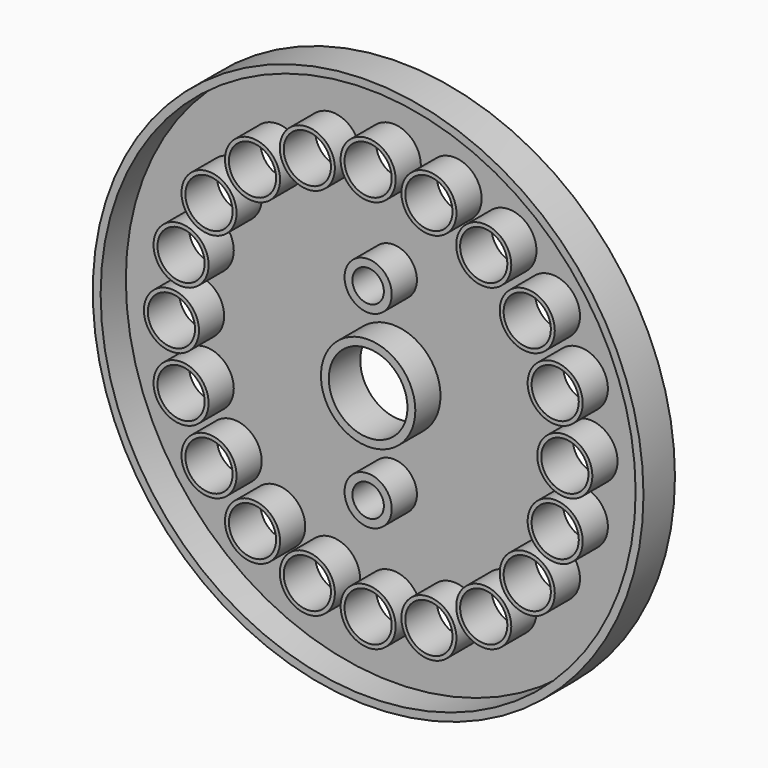
from build123d import *

# Parameters (mm, degrees)
F0_R     = 35
F0_R_2   = 3
F0_R_3   = 2
F0_R_4   = 5
F1_DEPTH = 1
F2_R     = 35
F2_R_2   = 34
F2_R_3   = 3
F2_R_4   = 2
F2_R_5   = 6
F2_R_6   = 5
F2_R_7   = 3.5
F3_DEPTH = 4


with BuildPart() as f1:
    # F0 (on Front) → F1 (new body)
    with BuildSketch(Plane.XZ):
        Circle(F0_R)
        with Locations((-14.694631, -20.225425)):
            Circle(F0_R_2, mode=Mode.SUBTRACT)
        with Locations((-7.725425, -23.776413)):
            Circle(F0_R_2, mode=Mode.SUBTRACT)
        with Locations((-20.225425, -14.694631)):
            Circle(F0_R_2, mode=Mode.SUBTRACT)
        with Locations((-23.776413, -7.725425)):
            Circle(F0_R_2, mode=Mode.SUBTRACT)
        with Locations((0, -25)):
            Circle(F0_R_2, mode=Mode.SUBTRACT)
        with Locations((7.725425, -23.776413)):
            Circle(F0_R_2, mode=Mode.SUBTRACT)
        with Locations((14.694631, -20.225425)):
            Circle(F0_R_2, mode=Mode.SUBTRACT)
        with Locations((0, -12)):
            Circle(F0_R_3, mode=Mode.SUBTRACT)
        with Locations((20.225425, -14.694631)):
            Circle(F0_R_2, mode=Mode.SUBTRACT)
        with Locations((23.776413, -7.725425)):
            Circle(F0_R_2, mode=Mode.SUBTRACT)
        with Locations((-25, 0)):
            Circle(F0_R_2, mode=Mode.SUBTRACT)
        with Locations((-23.776413, 7.725425)):
            Circle(F0_R_2, mode=Mode.SUBTRACT)
        with Locations((-20.225425, 14.694631)):
            Circle(F0_R_2, mode=Mode.SUBTRACT)
        with Locations((-14.694631, 20.225425)):
            Circle(F0_R_2, mode=Mode.SUBTRACT)
        with Locations((-7.725425, 23.776413)):
            Circle(F0_R_2, mode=Mode.SUBTRACT)
        Circle(F0_R_4, mode=Mode.SUBTRACT)
        with Locations((0, 12)):
            Circle(F0_R_3, mode=Mode.SUBTRACT)
        with Locations((25, 0)):
            Circle(F0_R_2, mode=Mode.SUBTRACT)
        with Locations((23.776413, 7.725425)):
            Circle(F0_R_2, mode=Mode.SUBTRACT)
        with Locations((20.225425, 14.694631)):
            Circle(F0_R_2, mode=Mode.SUBTRACT)
        with Locations((0, 25)):
            Circle(F0_R_2, mode=Mode.SUBTRACT)
        with Locations((7.725425, 23.776413)):
            Circle(F0_R_2, mode=Mode.SUBTRACT)
        with Locations((14.694631, 20.225425)):
            Circle(F0_R_2, mode=Mode.SUBTRACT)
    extrude(amount=F1_DEPTH)

    # F2 (on face) → F3 (join)
    with BuildSketch(Plane.XZ.offset(1)):
        Circle(F2_R)
        Circle(F2_R_2, mode=Mode.SUBTRACT)
        with Locations((0, 12)):
            Circle(F2_R_3)
        with Locations((0, 12)):
            Circle(F2_R_4, mode=Mode.SUBTRACT)
        Circle(F2_R_5)
        Circle(F2_R_6, mode=Mode.SUBTRACT)
        with Locations((0, -12)):
            Circle(F2_R_3)
        with Locations((0, -12)):
            Circle(F2_R_4, mode=Mode.SUBTRACT)
        with Locations((-14.694631, 20.225425)):
            Circle(F2_R_7)
        with Locations((-14.694631, 20.225425)):
            Circle(F2_R_3, mode=Mode.SUBTRACT)
        with Locations((-20.225425, 14.694631)):
            Circle(F2_R_7)
        with Locations((-20.225425, 14.694631)):
            Circle(F2_R_3, mode=Mode.SUBTRACT)
        with Locations((-23.776413, 7.725425)):
            Circle(F2_R_7)
        with Locations((-23.776413, 7.725425)):
            Circle(F2_R_3, mode=Mode.SUBTRACT)
        with Locations((-25, 0)):
            Circle(F2_R_7)
        with Locations((-25, 0)):
            Circle(F2_R_3, mode=Mode.SUBTRACT)
        with Locations((-23.776413, -7.725425)):
            Circle(F2_R_7)
        with Locations((-23.776413, -7.725425)):
            Circle(F2_R_3, mode=Mode.SUBTRACT)
        with Locations((-20.225425, -14.694631)):
            Circle(F2_R_7)
        with Locations((-20.225425, -14.694631)):
            Circle(F2_R_3, mode=Mode.SUBTRACT)
        with Locations((-14.694631, -20.225425)):
            Circle(F2_R_7)
        with Locations((-14.694631, -20.225425)):
            Circle(F2_R_3, mode=Mode.SUBTRACT)
        with Locations((-7.725425, -23.776413)):
            Circle(F2_R_7)
        with Locations((-7.725425, -23.776413)):
            Circle(F2_R_3, mode=Mode.SUBTRACT)
        with Locations((0, -25)):
            Circle(F2_R_7)
        with Locations((0, -25)):
            Circle(F2_R_3, mode=Mode.SUBTRACT)
        with Locations((7.725425, -23.776413)):
            Circle(F2_R_7)
        with Locations((7.725425, -23.776413)):
            Circle(F2_R_3, mode=Mode.SUBTRACT)
        with Locations((14.694631, -20.225425)):
            Circle(F2_R_7)
        with Locations((14.694631, -20.225425)):
            Circle(F2_R_3, mode=Mode.SUBTRACT)
        with Locations((20.225425, -14.694631)):
            Circle(F2_R_7)
        with Locations((20.225425, -14.694631)):
            Circle(F2_R_3, mode=Mode.SUBTRACT)
        with Locations((23.776413, -7.725425)):
            Circle(F2_R_7)
        with Locations((23.776413, -7.725425)):
            Circle(F2_R_3, mode=Mode.SUBTRACT)
        with Locations((25, 0)):
            Circle(F2_R_7)
        with Locations((25, 0)):
            Circle(F2_R_3, mode=Mode.SUBTRACT)
        with Locations((23.776413, 7.725425)):
            Circle(F2_R_7)
        with Locations((23.776413, 7.725425)):
            Circle(F2_R_3, mode=Mode.SUBTRACT)
        with Locations((20.225425, 14.694631)):
            Circle(F2_R_7)
        with Locations((20.225425, 14.694631)):
            Circle(F2_R_3, mode=Mode.SUBTRACT)
        with Locations((14.694631, 20.225425)):
            Circle(F2_R_7)
        with Locations((14.694631, 20.225425)):
            Circle(F2_R_3, mode=Mode.SUBTRACT)
        with Locations((7.725425, 23.776413)):
            Circle(F2_R_7)
        with Locations((7.725425, 23.776413)):
            Circle(F2_R_3, mode=Mode.SUBTRACT)
        with Locations((-7.725425, 23.776413)):
            Circle(F2_R_7)
        with Locations((-7.725425, 23.776413)):
            Circle(F2_R_3, mode=Mode.SUBTRACT)
        with Locations((0, 25)):
            Circle(F2_R_7)
        with Locations((0, 25)):
            Circle(F2_R_3, mode=Mode.SUBTRACT)
    extrude(amount=F3_DEPTH)


solid = f1.part
